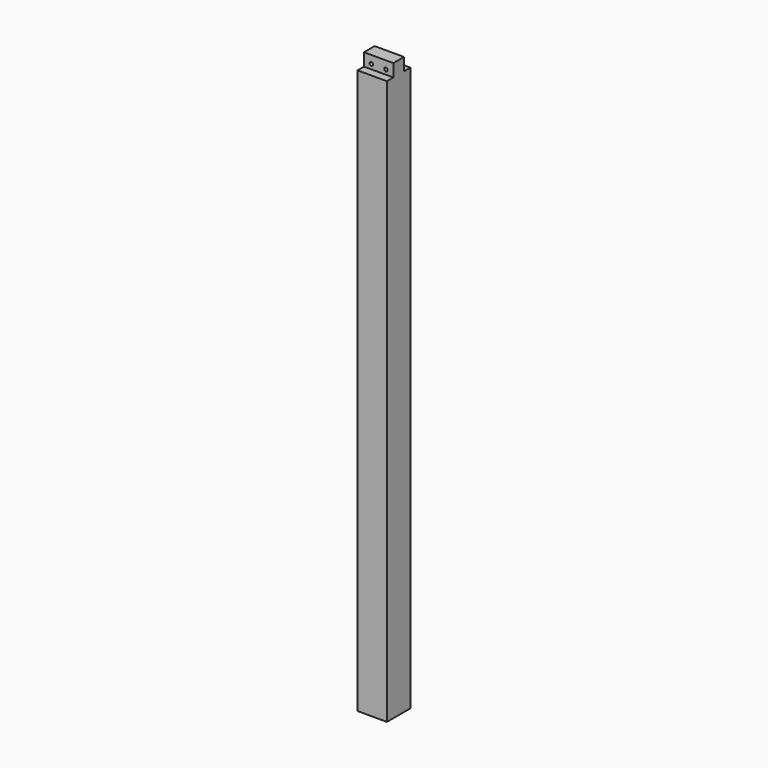
from build123d import *

# Parameters (mm, degrees)
F0_W     = 139.7
F0_H     = 139.7
F1_DEPTH = 2743.2
F2_W     = 38.1
F2_H     = 60.325
F3_DEPTH = 139.701
F5_D     = 16.66748


with BuildPart() as f1:
    # F0 (on Top) → F1 (new body)
    with BuildSketch(Plane.XY):
        with Locations((69.85, 69.85)):
            Rectangle(F0_W, F0_H)
    extrude(amount=F1_DEPTH)

    # F2 (on face) → F3 (cut, through all)
    with BuildSketch(Plane.YZ.offset(139.7)):
        with Locations((19.05, 2713.0375)):
            Rectangle(F2_W, F2_H)
        with Locations((120.65, 2713.0375)):
            Rectangle(F2_W, F2_H)
    extrude(amount=-F3_DEPTH, mode=Mode.SUBTRACT)

    # F5 (through all)
    with Locations(Plane(origin=(0, 139.7, 0), x_dir=(-1, 0, 0), z_dir=(0, 1, 0))):
        with Locations((-104.775, 2705.1), (-34.925, 2705.1)):
            Hole(F5_D / 2)


solid = f1.part
